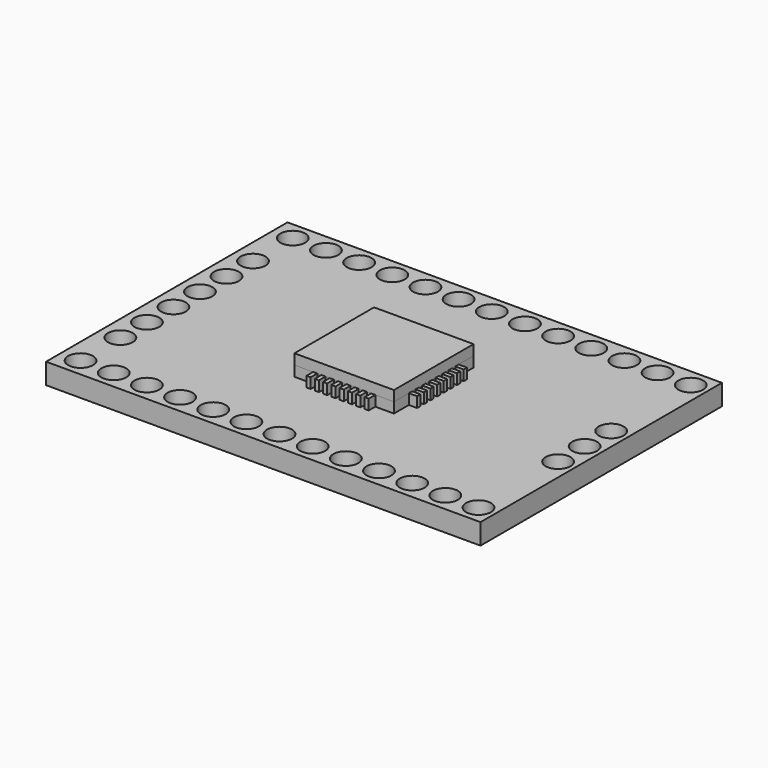
from build123d import *

# Parameters (mm, degrees)
F0_W     = 33.274
F0_H     = 23.114
F0_R     = 0.9525
F1_DEPTH = 1.5875
F2_W     = 0.3175
F2_H     = 0.635
F2_W_2   = 0.635
F2_H_2   = 0.3175
F3_DEPTH = 0.79375
F4_W     = 7.62
F4_H     = 7.62
F5_DEPTH = 0.79375


with BuildPart() as f1:
    # F0 (on Top) → F1 (new body)
    with BuildSketch(Plane.XY):
        Rectangle(F0_W, F0_H)
        with Locations((-15.113, -10.16)):
            Circle(F0_R, mode=Mode.SUBTRACT)
        with Locations((-12.573, -10.16)):
            Circle(F0_R, mode=Mode.SUBTRACT)
        with Locations((-10.033, -10.16)):
            Circle(F0_R, mode=Mode.SUBTRACT)
        with Locations((-15.113, -6.35)):
            Circle(F0_R, mode=Mode.SUBTRACT)
        with Locations((-7.493, -10.16)):
            Circle(F0_R, mode=Mode.SUBTRACT)
        with Locations((-4.953, -10.16)):
            Circle(F0_R, mode=Mode.SUBTRACT)
        with Locations((-2.413, -10.16)):
            Circle(F0_R, mode=Mode.SUBTRACT)
        with Locations((-15.113, -3.81)):
            Circle(F0_R, mode=Mode.SUBTRACT)
        with Locations((-15.113, -1.27)):
            Circle(F0_R, mode=Mode.SUBTRACT)
        with Locations((0.127, -10.16)):
            Circle(F0_R, mode=Mode.SUBTRACT)
        with Locations((2.667, -10.16)):
            Circle(F0_R, mode=Mode.SUBTRACT)
        with Locations((5.207, -10.16)):
            Circle(F0_R, mode=Mode.SUBTRACT)
        with Locations((7.747, -10.16)):
            Circle(F0_R, mode=Mode.SUBTRACT)
        with Locations((10.287, -10.16)):
            Circle(F0_R, mode=Mode.SUBTRACT)
        with Locations((12.827, -10.16)):
            Circle(F0_R, mode=Mode.SUBTRACT)
        with Locations((15.367, -10.16)):
            Circle(F0_R, mode=Mode.SUBTRACT)
        with Locations((15.367, -2.54)):
            Circle(F0_R, mode=Mode.SUBTRACT)
        with Locations((15.367, 0)):
            Circle(F0_R, mode=Mode.SUBTRACT)
        with Locations((-15.113, 1.27)):
            Circle(F0_R, mode=Mode.SUBTRACT)
        with Locations((-15.113, 3.81)):
            Circle(F0_R, mode=Mode.SUBTRACT)
        with Locations((-15.113, 6.35)):
            Circle(F0_R, mode=Mode.SUBTRACT)
        with Locations((-15.113, 10.16)):
            Circle(F0_R, mode=Mode.SUBTRACT)
        with Locations((-12.573, 10.16)):
            Circle(F0_R, mode=Mode.SUBTRACT)
        with Locations((-10.033, 10.16)):
            Circle(F0_R, mode=Mode.SUBTRACT)
        with Locations((-7.493, 10.16)):
            Circle(F0_R, mode=Mode.SUBTRACT)
        with Locations((-4.953, 10.16)):
            Circle(F0_R, mode=Mode.SUBTRACT)
        with Locations((-2.413, 10.16)):
            Circle(F0_R, mode=Mode.SUBTRACT)
        with Locations((15.367, 2.54)):
            Circle(F0_R, mode=Mode.SUBTRACT)
        with Locations((0.127, 10.16)):
            Circle(F0_R, mode=Mode.SUBTRACT)
        with Locations((2.667, 10.16)):
            Circle(F0_R, mode=Mode.SUBTRACT)
        with Locations((5.207, 10.16)):
            Circle(F0_R, mode=Mode.SUBTRACT)
        with Locations((7.747, 10.16)):
            Circle(F0_R, mode=Mode.SUBTRACT)
        with Locations((10.287, 10.16)):
            Circle(F0_R, mode=Mode.SUBTRACT)
        with Locations((12.827, 10.16)):
            Circle(F0_R, mode=Mode.SUBTRACT)
        with Locations((15.367, 10.16)):
            Circle(F0_R, mode=Mode.SUBTRACT)
    extrude(amount=F1_DEPTH)


with BuildPart() as f3:
    # F2 (on face) → F3 (new body)
    with BuildSketch(Plane.XY.offset(1.5875)):
        Polygon((2.38125, -3.81), (3.81, -3.81), (3.81, -2.38125), (3.175, -2.38125), (3.175, -2.06375), (3.81, -2.06375), (3.81, -1.74625), (3.175, -1.74625), (3.175, -1.42875), (3.81, -1.42875), (3.81, -1.11125), (3.175, -1.11125), (3.175, -0.79375), (3.81, -0.79375), (3.81, -0.47625), (3.175, -0.47625), (3.175, -0.15875), (3.81, -0.15875), (3.81, 0.15875), (3.175, 0.15875), (3.175, 0.47625), (3.81, 0.47625), (3.81, 0.79375), (3.175, 0.79375), (3.175, 1.11125), (3.81, 1.11125), (3.81, 1.42875), (3.175, 1.42875), (3.175, 1.74625), (3.81, 1.74625), (3.81, 2.06375), (3.175, 2.06375), (3.175, 2.38125), (3.81, 2.38125), (3.81, 3.81), (2.38125, 3.81), (2.38125, 3.175), (2.06375, 3.175), (2.06375, 3.81), (1.74625, 3.81), (1.74625, 3.175), (1.42875, 3.175), (1.42875, 3.81), (1.11125, 3.81), (1.11125, 3.175), (0.79375, 3.175), (0.79375, 3.81), (0.47625, 3.81), (0.47625, 3.175), (0.15875, 3.175), (0.15875, 3.81), (-0.15875, 3.81), (-0.15875, 3.175), (-0.47625, 3.175), (-0.47625, 3.81), (-0.79375, 3.81), (-0.79375, 3.175), (-1.11125, 3.175), (-1.11125, 3.81), (-1.42875, 3.81), (-1.42875, 3.175), (-1.74625, 3.175), (-1.74625, 3.81), (-2.06375, 3.81), (-2.06375, 3.175), (-2.38125, 3.175), (-2.38125, 3.81), (-3.81, 3.81), (-3.81, 2.38125), (-3.175, 2.38125), (-3.175, 2.06375), (-3.81, 2.06375), (-3.81, 1.74625), (-3.175, 1.74625), (-3.175, 1.42875), (-3.81, 1.42875), (-3.81, 1.11125), (-3.175, 1.11125), (-3.175, 0.79375), (-3.81, 0.79375), (-3.81, 0.47625), (-3.175, 0.47625), (-3.175, 0.15875), (-3.81, 0.15875), (-3.81, -0.15875), (-3.175, -0.15875), (-3.175, -0.47625), (-3.81, -0.47625), (-3.81, -0.79375), (-3.175, -0.79375), (-3.175, -1.11125), (-3.81, -1.11125), (-3.81, -1.42875), (-3.175, -1.42875), (-3.175, -1.74625), (-3.81, -1.74625), (-3.81, -2.06375), (-3.175, -2.06375), (-3.175, -2.38125), (-3.81, -2.38125), (-3.81, -3.81), (-2.38125, -3.81), (-2.38125, -3.175), (-2.06375, -3.175), (-2.06375, -3.81), (-1.74625, -3.81), (-1.74625, -3.175), (-1.42875, -3.175), (-1.42875, -3.81), (-1.11125, -3.81), (-1.11125, -3.175), (-0.79375, -3.175), (-0.79375, -3.81), (-0.47625, -3.81), (-0.47625, -3.175), (-0.15875, -3.175), (-0.15875, -3.81), (0.15875, -3.81), (0.15875, -3.175), (0.47625, -3.175), (0.47625, -3.81), (0.79375, -3.81), (0.79375, -3.175), (1.11125, -3.175), (1.11125, -3.81), (1.42875, -3.81), (1.42875, -3.175), (1.74625, -3.175), (1.74625, -3.81), (2.06375, -3.81), (2.06375, -3.175), (2.38125, -3.175), align=None)
        with Locations((2.2225, -4.1275)):
            Rectangle(F2_W, F2_H)
        with Locations((2.2225, -3.4925)):
            Rectangle(F2_W, F2_H)
        with Locations((3.4925, -2.2225)):
            Rectangle(F2_W_2, F2_H_2)
        with Locations((4.1275, -2.2225)):
            Rectangle(F2_W_2, F2_H_2)
        with Locations((1.5875, -4.1275)):
            Rectangle(F2_W, F2_H)
        with Locations((1.5875, -3.4925)):
            Rectangle(F2_W, F2_H)
        with Locations((3.4925, -1.5875)):
            Rectangle(F2_W_2, F2_H_2)
        with Locations((4.1275, -1.5875)):
            Rectangle(F2_W_2, F2_H_2)
        with Locations((0.9525, -4.1275)):
            Rectangle(F2_W, F2_H)
        with Locations((0.9525, -3.4925)):
            Rectangle(F2_W, F2_H)
        with Locations((3.4925, -0.9525)):
            Rectangle(F2_W_2, F2_H_2)
        with Locations((4.1275, -0.9525)):
            Rectangle(F2_W_2, F2_H_2)
        with Locations((0.3175, -4.1275)):
            Rectangle(F2_W, F2_H)
        with Locations((0.3175, -3.4925)):
            Rectangle(F2_W, F2_H)
        with Locations((3.4925, -0.3175)):
            Rectangle(F2_W_2, F2_H_2)
        with Locations((4.1275, -0.3175)):
            Rectangle(F2_W_2, F2_H_2)
        with Locations((-0.3175, -4.1275)):
            Rectangle(F2_W, F2_H)
        with Locations((-0.3175, -3.4925)):
            Rectangle(F2_W, F2_H)
        with Locations((3.4925, 0.3175)):
            Rectangle(F2_W_2, F2_H_2)
        with Locations((4.1275, 0.3175)):
            Rectangle(F2_W_2, F2_H_2)
        with Locations((-0.9525, -4.1275)):
            Rectangle(F2_W, F2_H)
        with Locations((-0.9525, -3.4925)):
            Rectangle(F2_W, F2_H)
        with Locations((3.4925, 0.9525)):
            Rectangle(F2_W_2, F2_H_2)
        with Locations((4.1275, 0.9525)):
            Rectangle(F2_W_2, F2_H_2)
        with Locations((-1.5875, -4.1275)):
            Rectangle(F2_W, F2_H)
        with Locations((-1.5875, -3.4925)):
            Rectangle(F2_W, F2_H)
        with Locations((3.4925, 1.5875)):
            Rectangle(F2_W_2, F2_H_2)
        with Locations((4.1275, 1.5875)):
            Rectangle(F2_W_2, F2_H_2)
        with Locations((-2.2225, -4.1275)):
            Rectangle(F2_W, F2_H)
        with Locations((-2.2225, -3.4925)):
            Rectangle(F2_W, F2_H)
        with Locations((3.4925, 2.2225)):
            Rectangle(F2_W_2, F2_H_2)
        with Locations((4.1275, 2.2225)):
            Rectangle(F2_W_2, F2_H_2)
        with Locations((-4.1275, -2.2225)):
            Rectangle(F2_W_2, F2_H_2)
        with Locations((-3.4925, -2.2225)):
            Rectangle(F2_W_2, F2_H_2)
        with Locations((2.2225, 3.4925)):
            Rectangle(F2_W, F2_H)
        with Locations((2.2225, 4.1275)):
            Rectangle(F2_W, F2_H)
        with Locations((-4.1275, -1.5875)):
            Rectangle(F2_W_2, F2_H_2)
        with Locations((-3.4925, -1.5875)):
            Rectangle(F2_W_2, F2_H_2)
        with Locations((1.5875, 3.4925)):
            Rectangle(F2_W, F2_H)
        with Locations((1.5875, 4.1275)):
            Rectangle(F2_W, F2_H)
        with Locations((-4.1275, -0.9525)):
            Rectangle(F2_W_2, F2_H_2)
        with Locations((-3.4925, -0.9525)):
            Rectangle(F2_W_2, F2_H_2)
        with Locations((0.9525, 3.4925)):
            Rectangle(F2_W, F2_H)
        with Locations((0.9525, 4.1275)):
            Rectangle(F2_W, F2_H)
        with Locations((-4.1275, -0.3175)):
            Rectangle(F2_W_2, F2_H_2)
        with Locations((-3.4925, -0.3175)):
            Rectangle(F2_W_2, F2_H_2)
        with Locations((0.3175, 3.4925)):
            Rectangle(F2_W, F2_H)
        with Locations((0.3175, 4.1275)):
            Rectangle(F2_W, F2_H)
        with Locations((-4.1275, 0.3175)):
            Rectangle(F2_W_2, F2_H_2)
        with Locations((-3.4925, 0.3175)):
            Rectangle(F2_W_2, F2_H_2)
        with Locations((-0.3175, 3.4925)):
            Rectangle(F2_W, F2_H)
        with Locations((-0.3175, 4.1275)):
            Rectangle(F2_W, F2_H)
        with Locations((-4.1275, 0.9525)):
            Rectangle(F2_W_2, F2_H_2)
        with Locations((-3.4925, 0.9525)):
            Rectangle(F2_W_2, F2_H_2)
        with Locations((-0.9525, 3.4925)):
            Rectangle(F2_W, F2_H)
        with Locations((-0.9525, 4.1275)):
            Rectangle(F2_W, F2_H)
        with Locations((-4.1275, 1.5875)):
            Rectangle(F2_W_2, F2_H_2)
        with Locations((-3.4925, 1.5875)):
            Rectangle(F2_W_2, F2_H_2)
        with Locations((-1.5875, 3.4925)):
            Rectangle(F2_W, F2_H)
        with Locations((-1.5875, 4.1275)):
            Rectangle(F2_W, F2_H)
        with Locations((-4.1275, 2.2225)):
            Rectangle(F2_W_2, F2_H_2)
        with Locations((-3.4925, 2.2225)):
            Rectangle(F2_W_2, F2_H_2)
        with Locations((-2.2225, 3.4925)):
            Rectangle(F2_W, F2_H)
        with Locations((-2.2225, 4.1275)):
            Rectangle(F2_W, F2_H)
    extrude(amount=F3_DEPTH)


with BuildPart() as f5:
    # F4 (on face) → F5 (new body)
    with BuildSketch(Plane.XY.offset(2.38125)):
        Rectangle(F4_W, F4_H)
    extrude(amount=F5_DEPTH)


solid = Compound([f1.part, f3.part, f5.part])
